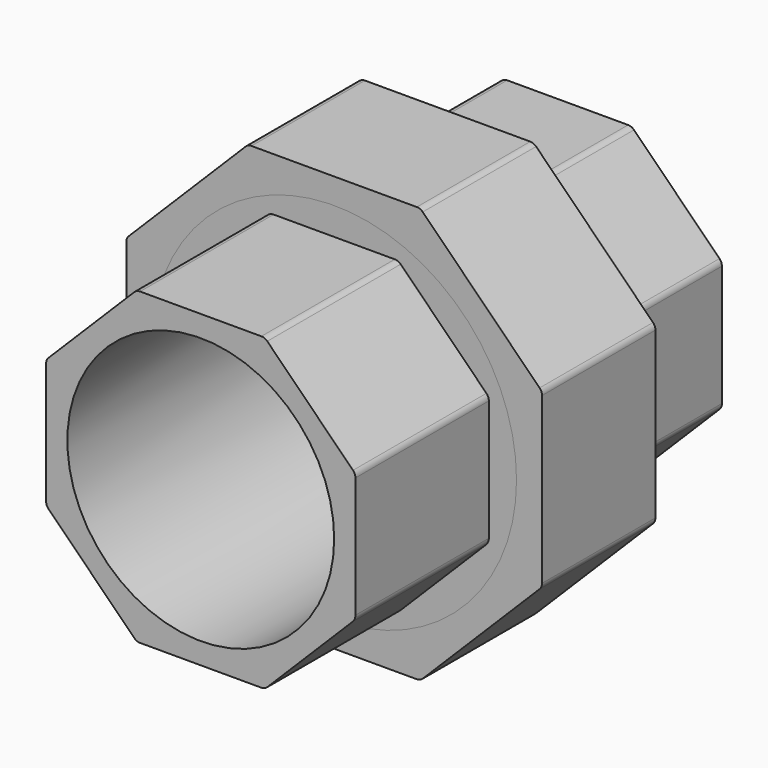
from build123d import *

# Parameters (mm, degrees)
F0_R      = 16
F1_DEPTH  = 20
F2_R      = 21.8694286039
F2_R_2    = 16
F3_DEPTH  = 2
F4_R      = 21.8694286039
F4_R_2    = 20.5497953689
F5_DEPTH  = 2
F6_DEPTH  = 15
F7_R      = 21.8694286039
F8_DEPTH  = 13
F9_R      = 21.8694286039
F9_R_2    = 16
F10_DEPTH = 13
F11_R     = 16
F12_DEPTH = 20


with BuildPart() as f1:
    # F0 (on Front) → F1 (new body)
    with BuildSketch(Plane.XZ):
        with BuildLine():
            Line((7.2487373415, 18.5), (-7.2487373415, 18.5))
            ThreePointArc((-7.2487373415, 18.5), (-7.6314207739, 18.4238795325), (-7.9558441227, 18.2071067812))
            Line((-7.9558441227, 18.2071067812), (-18.2071067812, 7.9558441227))
            ThreePointArc((-18.2071067812, 7.9558441227), (-18.4238795325, 7.6314207739), (-18.5, 7.2487373415))
            Line((-18.5, 7.2487373415), (-18.5, -7.2487373415))
            ThreePointArc((-18.5, -7.2487373415), (-18.4238795325, -7.6314207739), (-18.2071067812, -7.9558441227))
            Line((-18.2071067812, -7.9558441227), (-7.9558441227, -18.2071067812))
            ThreePointArc((-7.9558441227, -18.2071067812), (-7.6314207739, -18.4238795325), (-7.2487373415, -18.5))
            Line((-7.2487373415, -18.5), (7.2487373415, -18.5))
            ThreePointArc((7.2487373415, -18.5), (7.6314207739, -18.4238795325), (7.9558441227, -18.2071067812))
            Line((7.9558441227, -18.2071067812), (18.2071067812, -7.9558441227))
            ThreePointArc((18.2071067812, -7.9558441227), (18.4238795325, -7.6314207739), (18.5, -7.2487373415))
            Line((18.5, -7.2487373415), (18.5, 7.2487373415))
            ThreePointArc((18.5, 7.2487373415), (18.4238795325, 7.6314207739), (18.2071067812, 7.9558441227))
            Line((18.2071067812, 7.9558441227), (7.9558441227, 18.2071067812))
            ThreePointArc((7.9558441227, 18.2071067812), (7.6314207739, 18.4238795325), (7.2487373415, 18.5))
        make_face()
        Circle(F0_R, mode=Mode.SUBTRACT)
    extrude(amount=F1_DEPTH)

    # F2 (on face) → F3 (join)
    with BuildSketch(Plane.XZ.offset(20)):
        Circle(F2_R)
        Circle(F2_R_2, mode=Mode.SUBTRACT)
    extrude(amount=F3_DEPTH)


with BuildPart() as f5:
    # F4 (on face) → F5 (new body)
    with BuildSketch(Plane(origin=(0, -20, 0), x_dir=(-1, 0, 0), z_dir=(0, 1, 0))):
        with BuildLine():
            Line((9.9110204382, 24.9273199588), (-9.9110204382, 24.9273199588))
            ThreePointArc((-9.9110204382, 24.9273199588), (-10.2937038705, 24.8511994913), (-10.6181272194, 24.63442674))
            Line((-10.6181272194, 24.63442674), (-24.63442674, 10.6181272194))
            ThreePointArc((-24.63442674, 10.6181272194), (-24.8511994913, 10.2937038705), (-24.9273199588, 9.9110204382))
            Line((-24.9273199588, 9.9110204382), (-24.9273199588, -9.9110204382))
            ThreePointArc((-24.9273199588, -9.9110204382), (-24.8511994913, -10.2937038705), (-24.63442674, -10.6181272194))
            Line((-24.63442674, -10.6181272194), (-10.6181272194, -24.63442674))
            ThreePointArc((-10.6181272194, -24.63442674), (-10.2937038705, -24.8511994913), (-9.9110204382, -24.9273199588))
            Line((-9.9110204382, -24.9273199588), (9.9110204382, -24.9273199588))
            ThreePointArc((9.9110204382, -24.9273199588), (10.2937038705, -24.8511994913), (10.6181272194, -24.63442674))
            Line((10.6181272194, -24.63442674), (24.63442674, -10.6181272194))
            ThreePointArc((24.63442674, -10.6181272194), (24.8511994913, -10.2937038705), (24.9273199588, -9.9110204382))
            Line((24.9273199588, -9.9110204382), (24.9273199588, 9.9110204382))
            ThreePointArc((24.9273199588, 9.9110204382), (24.8511994913, 10.2937038705), (24.63442674, 10.6181272194))
            Line((24.63442674, 10.6181272194), (10.6181272194, 24.63442674))
            ThreePointArc((10.6181272194, 24.63442674), (10.2937038705, 24.8511994913), (9.9110204382, 24.9273199588))
        make_face()
        Circle(F4_R, mode=Mode.SUBTRACT)
        Circle(F4_R)
        Circle(F4_R_2, mode=Mode.SUBTRACT)
    extrude(amount=F5_DEPTH)

    # F6 (add): a face of the model
    f6_faces = [f5.faces().sort_by_distance(p)[0] for p in [
        (0, -20, 24.2222688796),
    ]]
    extrude(f6_faces, amount=F6_DEPTH)

    # F7 (on face) → F8 (cut)
    with BuildSketch(Plane.XZ.offset(35)):
        Circle(F7_R)
    extrude(amount=-F8_DEPTH, mode=Mode.SUBTRACT)


with BuildPart() as f10:
    # F9 (on face) → F10 (new body)
    with BuildSketch(Plane.XZ.offset(22)):
        Circle(F9_R)
        Circle(F9_R_2, mode=Mode.SUBTRACT)
    extrude(amount=F10_DEPTH)

    # F11 (on face) → F12 (join)
    with BuildSketch(Plane.XZ.offset(35)):
        with BuildLine():
            Line((7.2693632587, 18.5497953689), (-7.2693632587, 18.5497953689))
            ThreePointArc((-7.2693632587, 18.5497953689), (-7.652046691, 18.4736749014), (-7.9764700399, 18.2569021501))
            Line((-7.9764700399, 18.2569021501), (-18.2569021501, 7.9764700399))
            ThreePointArc((-18.2569021501, 7.9764700399), (-18.4736749014, 7.652046691), (-18.5497953689, 7.2693632587))
            Line((-18.5497953689, 7.2693632587), (-18.5497953689, -7.2693632587))
            ThreePointArc((-18.5497953689, -7.2693632587), (-18.4736749014, -7.652046691), (-18.2569021501, -7.9764700399))
            Line((-18.2569021501, -7.9764700399), (-7.9764700399, -18.2569021501))
            ThreePointArc((-7.9764700399, -18.2569021501), (-7.652046691, -18.4736749014), (-7.2693632587, -18.5497953689))
            Line((-7.2693632587, -18.5497953689), (7.2693632587, -18.5497953689))
            ThreePointArc((7.2693632587, -18.5497953689), (7.652046691, -18.4736749014), (7.9764700399, -18.2569021501))
            Line((7.9764700399, -18.2569021501), (18.2277326983, -8.0056394916))
            ThreePointArc((18.2277326983, -8.0056394916), (18.4660940079, -7.6489065821), (18.5497953689, -7.2281114244))
            Line((18.5497953689, -7.2281114244), (18.5497953689, 7.2693632587))
            ThreePointArc((18.5497953689, 7.2693632587), (18.4736749014, 7.652046691), (18.2569021501, 7.9764700399))
            Line((18.2569021501, 7.9764700399), (7.9764700399, 18.2569021501))
            ThreePointArc((7.9764700399, 18.2569021501), (7.652046691, 18.4736749014), (7.2693632587, 18.5497953689))
        make_face()
        Circle(F11_R, mode=Mode.SUBTRACT)
    extrude(amount=F12_DEPTH)


solid = Compound([f1.part, f5.part, f10.part])
